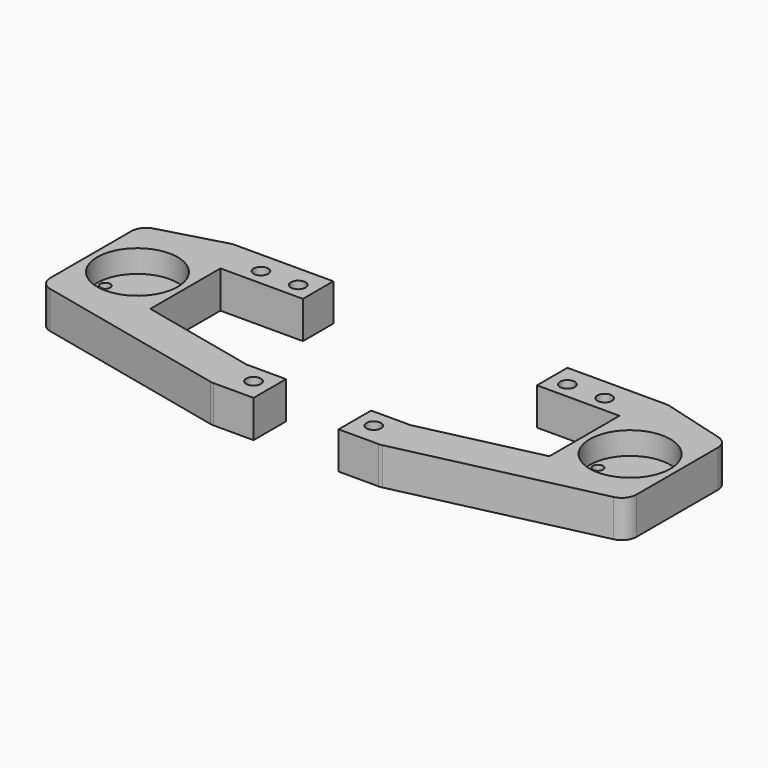
from build123d import *

# Parameters (mm, degrees)
F0_R     = 2.5
F0_R_2   = 13.75
F1_DEPTH = 12.73
F0_R_3   = 1.75
F0_R_4   = 4.5
F2_DEPTH = 5
F3_R     = 5


with BuildPart() as f1:
    # F0 (on Top) → F1 (new body)
    with BuildSketch(Plane.XY):
        with BuildLine():
            Line((6, -5.5), (6, 5.5))
            Line((6, 5.5), (6, 7.5))
            Line((6, 7.5), (-28.423662, 7.5))
            Line((-28.423662, 7.5), (-54.19, 0.318))
            Line((-54.19, 0.318), (-54.19, -20.96))
            ThreePointArc((-54.19, -20.96), (-38.19, -4.96), (-22.19, -20.96))
            Line((-22.19, -20.96), (-22.19, -5.5))
            Line((-22.19, -5.5), (6, -5.5))
        make_face()
        with Locations((-12.73, 0)):
            Circle(F0_R, mode=Mode.SUBTRACT)
        Circle(F0_R, mode=Mode.SUBTRACT)
        with BuildLine():
            Line((-22.19, -35.433535), (-22.19, -20.96))
            ThreePointArc((-22.19, -20.96), (-23.907143, -28.171103), (-28.69, -33.834393))
            ThreePointArc((-28.69, -33.834393), (-45.401103, -35.242857), (-54.19, -20.96))
            Line((-54.19, -20.96), (-54.19, -42.238321))
            Line((-54.19, -42.238321), (17.19, -58.42))
            Line((17.19, -58.42), (31.46, -58.42))
            Line((31.46, -58.42), (31.46, -44.533967))
            Line((31.46, -44.533967), (17.953478, -44.533967))
            Line((17.953478, -44.533967), (-22.19, -35.433535))
        make_face()
        with Locations((25.46, -50.92)):
            Circle(F0_R, mode=Mode.SUBTRACT)
        with BuildLine():
            ThreePointArc((-28.69, -33.834393), (-23.907143, -28.171103), (-22.19, -20.96))
            ThreePointArc((-22.19, -20.96), (-38.19, -4.96), (-54.19, -20.96))
            ThreePointArc((-54.19, -20.96), (-45.401103, -35.242857), (-28.69, -33.834393))
        make_face()
        with Locations((-38.19, -20.96)):
            Circle(F0_R_2, mode=Mode.SUBTRACT)
    extrude(amount=F1_DEPTH)

    # F0 (on Top) → F2 (join)
    with BuildSketch(Plane.XY):
        with Locations((-38.19, -20.96)):
            Circle(F0_R_2)
        with Locations((-49.19, -20.96)):
            Circle(F0_R_3, mode=Mode.SUBTRACT)
        with Locations((-38.19, -25.46)):
            Circle(F0_R_4, mode=Mode.SUBTRACT)
        with Locations((-27.19, -20.96)):
            Circle(F0_R_3, mode=Mode.SUBTRACT)
    extrude(amount=F2_DEPTH)

    # F3
    f3_edges = [f1.edges().sort_by_distance(p)[0] for p in [
        (-54.19, 0.318, 6.365),
        (-28.423662, 7.5, 6.365),
        (-54.19, -42.238321, 6.365),
        (17.19, -58.42, 6.365),
    ]]
    fillet(f3_edges, radius=F3_R)


with BuildPart() as f1_1:
    # F4: moved
    add(f1.part.moved(Location((-46, 0, 0))))


with BuildPart() as f5_1:
    # F5: instance of F1
    add(f1_1.part.mirror(Plane.YZ))


solid = Compound([f1_1.part, f5_1.part])
